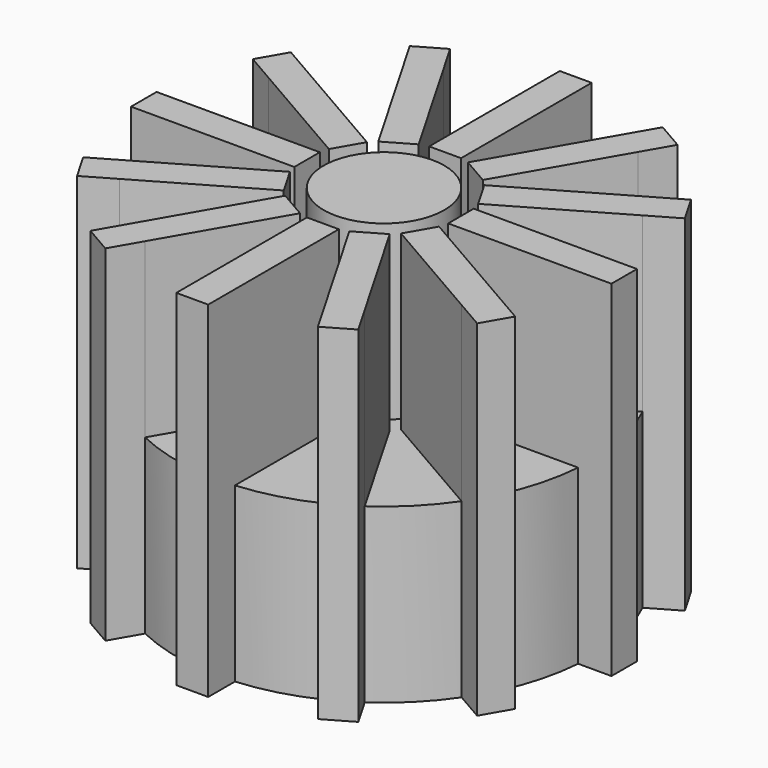
from build123d import *

# Parameters (mm, degrees)
F0_R     = 8.734171
F1_DEPTH = 25
F2_DEPTH = 50


with BuildPart() as f1:
    # F0 (on Top) → F1 (new body)
    with BuildSketch(Plane.XY):
        with BuildLine():
            Line((11.107184, 2.346986), (29.908053, 2.346986))
            ThreePointArc((29.908053, 2.346986), (28.967814, 7.801649), (27.041466, 12.990731))
            Line((27.041466, 12.990731), (10.754318, 3.587342))
            Line((10.754318, 3.587342), (8.44561, 7.586142))
            Line((8.44561, 7.586142), (24.727641, 16.986576))
            ThreePointArc((24.727641, 16.986576), (21.186039, 21.240333), (16.923231, 24.771036))
            Line((16.923231, 24.771036), (7.519842, 8.483889))
            Line((7.519842, 8.483889), (3.521042, 10.792597))
            Line((3.521042, 10.792597), (12.921477, 27.074627))
            ThreePointArc((12.921477, 27.074627), (7.727481, 28.987688), (2.27043, 29.913962))
            Line((2.27043, 29.913962), (2.27043, 11.107184))
            Line((2.27043, 11.107184), (-2.346986, 11.107184))
            Line((-2.346986, 11.107184), (-2.346986, 29.908053))
            ThreePointArc((-2.346986, 29.908053), (-7.801649, 28.967814), (-12.990731, 27.041466))
            Line((-12.990731, 27.041466), (-3.587342, 10.754318))
            Line((-3.587342, 10.754318), (-7.586142, 8.44561))
            Line((-7.586142, 8.44561), (-16.986576, 24.727641))
            ThreePointArc((-16.986576, 24.727641), (-21.240333, 21.186039), (-24.771036, 16.923231))
            Line((-24.771036, 16.923231), (-8.483889, 7.519842))
            Line((-8.483889, 7.519842), (-10.792597, 3.521042))
            Line((-10.792597, 3.521042), (-27.074627, 12.921477))
            ThreePointArc((-27.074627, 12.921477), (-28.987688, 7.727481), (-29.913962, 2.27043))
            Line((-29.913962, 2.27043), (-11.107184, 2.27043))
            Line((-11.107184, 2.27043), (-11.107184, -2.346986))
            Line((-11.107184, -2.346986), (-29.908053, -2.346986))
            ThreePointArc((-29.908053, -2.346986), (-28.967814, -7.801649), (-27.041466, -12.990731))
            Line((-27.041466, -12.990731), (-10.754318, -3.587342))
            Line((-10.754318, -3.587342), (-8.44561, -7.586142))
            Line((-8.44561, -7.586142), (-24.727641, -16.986576))
            ThreePointArc((-24.727641, -16.986576), (-21.186039, -21.240333), (-16.923231, -24.771036))
            Line((-16.923231, -24.771036), (-7.519842, -8.483889))
            Line((-7.519842, -8.483889), (-3.521042, -10.792597))
            Line((-3.521042, -10.792597), (-12.921477, -27.074627))
            ThreePointArc((-12.921477, -27.074627), (-7.727481, -28.987688), (-2.27043, -29.913962))
            Line((-2.27043, -29.913962), (-2.27043, -11.107184))
            Line((-2.27043, -11.107184), (2.346986, -11.107184))
            Line((2.346986, -11.107184), (2.346986, -29.908053))
            ThreePointArc((2.346986, -29.908053), (7.801649, -28.967814), (12.990731, -27.041466))
            Line((12.990731, -27.041466), (3.587342, -10.754318))
            Line((3.587342, -10.754318), (7.586142, -8.44561))
            Line((7.586142, -8.44561), (16.986576, -24.727641))
            ThreePointArc((16.986576, -24.727641), (21.240333, -21.186039), (24.771036, -16.923231))
            Line((24.771036, -16.923231), (8.483889, -7.519842))
            Line((8.483889, -7.519842), (10.792597, -3.521042))
            Line((10.792597, -3.521042), (27.074627, -12.921477))
            ThreePointArc((27.074627, -12.921477), (28.987688, -7.727481), (29.913962, -2.27043))
            Line((29.913962, -2.27043), (11.107184, -2.27043))
            Line((11.107184, -2.27043), (11.107184, 2.346986))
        make_face()
        Circle(F0_R, mode=Mode.SUBTRACT)
    extrude(amount=F1_DEPTH)

    # F0 (on Top) → F2 (join)
    with BuildSketch(Plane.XY):
        with BuildLine():
            ThreePointArc((-27.074627, 12.921477), (-25.999937, 14.966739), (-24.771036, 16.923231))
            Line((-24.771036, 16.923231), (-28.949671, 19.335767))
            Line((-28.949671, 19.335767), (-31.258379, 15.336967))
            Line((-31.258379, 15.336967), (-27.074627, 12.921477))
        make_face()
        with BuildLine():
            ThreePointArc((-16.986576, 24.727641), (-15.033236, 25.961545), (-12.990731, 27.041466))
            Line((-12.990731, 27.041466), (-15.403267, 31.220101))
            Line((-15.403267, 31.220101), (-19.402067, 28.911393))
            Line((-19.402067, 28.911393), (-16.986576, 24.727641))
        make_face()
        with BuildLine():
            ThreePointArc((-2.346986, 29.908053), (-0.038392, 29.999975), (2.27043, 29.913962))
            Line((2.27043, 29.913962), (2.27043, 34.739034))
            Line((2.27043, 34.739034), (-2.346986, 34.739034))
            Line((-2.346986, 34.739034), (-2.346986, 29.908053))
        make_face()
        with BuildLine():
            ThreePointArc((12.921477, 27.074627), (14.966739, 25.999937), (16.923231, 24.771036))
            Line((16.923231, 24.771036), (19.335767, 28.949671))
            Line((19.335767, 28.949671), (15.336967, 31.258379))
            Line((15.336967, 31.258379), (12.921477, 27.074627))
        make_face()
        with BuildLine():
            ThreePointArc((24.727641, 16.986576), (25.961545, 15.033236), (27.041466, 12.990731))
            Line((27.041466, 12.990731), (31.220101, 15.403267))
            Line((31.220101, 15.403267), (28.911393, 19.402067))
            Line((28.911393, 19.402067), (24.727641, 16.986576))
        make_face()
        with BuildLine():
            ThreePointArc((29.908053, 2.346986), (29.977005, 1.174393), (30, 0))
            ThreePointArc((30, 0), (29.978483, -1.13603), (29.913962, -2.27043))
            Line((29.913962, -2.27043), (34.739034, -2.27043))
            Line((34.739034, -2.27043), (34.739034, 2.346986))
            Line((34.739034, 2.346986), (29.908053, 2.346986))
        make_face()
        with BuildLine():
            Line((31.258379, -15.336967), (27.074627, -12.921477))
            ThreePointArc((27.074627, -12.921477), (25.999937, -14.966739), (24.771036, -16.923231))
            Line((24.771036, -16.923231), (28.949671, -19.335767))
            Line((28.949671, -19.335767), (31.258379, -15.336967))
        make_face()
        with BuildLine():
            Line((19.402067, -28.911393), (16.986576, -24.727641))
            ThreePointArc((16.986576, -24.727641), (15.033236, -25.961545), (12.990731, -27.041466))
            Line((12.990731, -27.041466), (15.403267, -31.220101))
            Line((15.403267, -31.220101), (19.402067, -28.911393))
        make_face()
        with BuildLine():
            ThreePointArc((12.990731, -27.041466), (15.033236, -25.961545), (16.986576, -24.727641))
            Line((16.986576, -24.727641), (7.586142, -8.44561))
            Line((7.586142, -8.44561), (3.587342, -10.754318))
            Line((3.587342, -10.754318), (12.990731, -27.041466))
        make_face()
        with BuildLine():
            ThreePointArc((24.771036, -16.923231), (25.999937, -14.966739), (27.074627, -12.921477))
            Line((27.074627, -12.921477), (10.792597, -3.521042))
            Line((10.792597, -3.521042), (8.483889, -7.519842))
            Line((8.483889, -7.519842), (24.771036, -16.923231))
        make_face()
        with BuildLine():
            ThreePointArc((29.913962, -2.27043), (29.978483, -1.13603), (30, 0))
            ThreePointArc((30, 0), (29.977005, 1.174393), (29.908053, 2.346986))
            Line((29.908053, 2.346986), (11.107184, 2.346986))
            Line((11.107184, 2.346986), (11.107184, -2.27043))
            Line((11.107184, -2.27043), (29.913962, -2.27043))
        make_face()
        with BuildLine():
            Line((10.754318, 3.587342), (27.041466, 12.990731))
            ThreePointArc((27.041466, 12.990731), (25.961545, 15.033236), (24.727641, 16.986576))
            Line((24.727641, 16.986576), (8.44561, 7.586142))
            Line((8.44561, 7.586142), (10.754318, 3.587342))
        make_face()
        with BuildLine():
            Line((7.519842, 8.483889), (16.923231, 24.771036))
            ThreePointArc((16.923231, 24.771036), (14.966739, 25.999937), (12.921477, 27.074627))
            Line((12.921477, 27.074627), (3.521042, 10.792597))
            Line((3.521042, 10.792597), (7.519842, 8.483889))
        make_face()
        with BuildLine():
            Line((2.27043, 11.107184), (2.27043, 29.913962))
            ThreePointArc((2.27043, 29.913962), (-0.038392, 29.999975), (-2.346986, 29.908053))
            Line((-2.346986, 29.908053), (-2.346986, 11.107184))
            Line((-2.346986, 11.107184), (2.27043, 11.107184))
        make_face()
        with BuildLine():
            Line((-3.587342, 10.754318), (-12.990731, 27.041466))
            ThreePointArc((-12.990731, 27.041466), (-15.033236, 25.961545), (-16.986576, 24.727641))
            Line((-16.986576, 24.727641), (-7.586142, 8.44561))
            Line((-7.586142, 8.44561), (-3.587342, 10.754318))
        make_face()
        with BuildLine():
            Line((-8.483889, 7.519842), (-24.771036, 16.923231))
            ThreePointArc((-24.771036, 16.923231), (-25.999937, 14.966739), (-27.074627, 12.921477))
            Line((-27.074627, 12.921477), (-10.792597, 3.521042))
            Line((-10.792597, 3.521042), (-8.483889, 7.519842))
        make_face()
        with BuildLine():
            ThreePointArc((-29.908053, -2.346986), (-29.999975, -0.038392), (-29.913962, 2.27043))
            Line((-29.913962, 2.27043), (-34.739034, 2.27043))
            Line((-34.739034, 2.27043), (-34.739034, -2.346986))
            Line((-34.739034, -2.346986), (-29.908053, -2.346986))
        make_face()
        with BuildLine():
            Line((-28.911393, -19.402067), (-24.727641, -16.986576))
            ThreePointArc((-24.727641, -16.986576), (-25.961545, -15.033236), (-27.041466, -12.990731))
            Line((-27.041466, -12.990731), (-31.220101, -15.403267))
            Line((-31.220101, -15.403267), (-28.911393, -19.402067))
        make_face()
        with BuildLine():
            ThreePointArc((-27.041466, -12.990731), (-25.961545, -15.033236), (-24.727641, -16.986576))
            Line((-24.727641, -16.986576), (-8.44561, -7.586142))
            Line((-8.44561, -7.586142), (-10.754318, -3.587342))
            Line((-10.754318, -3.587342), (-27.041466, -12.990731))
        make_face()
        with BuildLine():
            ThreePointArc((-16.923231, -24.771036), (-14.966739, -25.999937), (-12.921477, -27.074627))
            Line((-12.921477, -27.074627), (-3.521042, -10.792597))
            Line((-3.521042, -10.792597), (-7.519842, -8.483889))
            Line((-7.519842, -8.483889), (-16.923231, -24.771036))
        make_face()
        with BuildLine():
            Line((-15.336967, -31.258379), (-12.921477, -27.074627))
            ThreePointArc((-12.921477, -27.074627), (-14.966739, -25.999937), (-16.923231, -24.771036))
            Line((-16.923231, -24.771036), (-19.335767, -28.949671))
            Line((-19.335767, -28.949671), (-15.336967, -31.258379))
        make_face()
        with BuildLine():
            ThreePointArc((-2.27043, -29.913962), (0.038392, -29.999975), (2.346986, -29.908053))
            Line((2.346986, -29.908053), (2.346986, -11.107184))
            Line((2.346986, -11.107184), (-2.27043, -11.107184))
            Line((-2.27043, -11.107184), (-2.27043, -29.913962))
        make_face()
        with BuildLine():
            Line((2.346986, -34.739034), (2.346986, -29.908053))
            ThreePointArc((2.346986, -29.908053), (0.038392, -29.999975), (-2.27043, -29.913962))
            Line((-2.27043, -29.913962), (-2.27043, -34.739034))
            Line((-2.27043, -34.739034), (2.346986, -34.739034))
        make_face()
        Circle(F0_R)
        with BuildLine():
            Line((-11.107184, 2.27043), (-29.913962, 2.27043))
            ThreePointArc((-29.913962, 2.27043), (-29.999975, -0.038392), (-29.908053, -2.346986))
            Line((-29.908053, -2.346986), (-11.107184, -2.346986))
            Line((-11.107184, -2.346986), (-11.107184, 2.27043))
        make_face()
    extrude(amount=F2_DEPTH)


solid = f1.part
